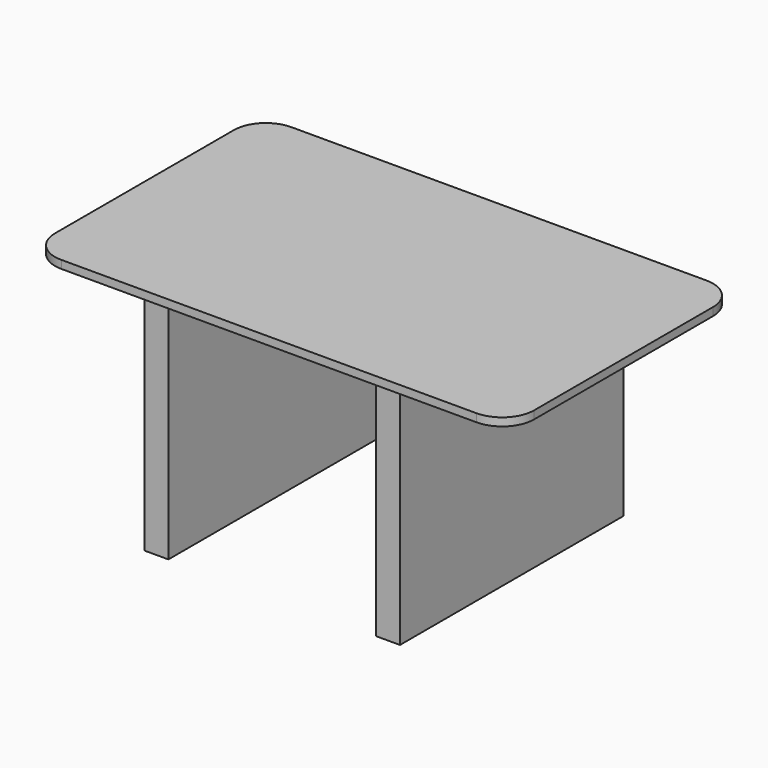
from build123d import *

# Parameters (mm, degrees)
F2_DEPTH = 25.4
F1_W     = 76.2
F1_H     = 889
F3_DEPTH = 711.2


with BuildPart() as f2:
    # F0 (on Top) → F2 (new body)
    with BuildSketch(Plane.XY):
        with BuildLine():
            ThreePointArc((0, 101.6), (29.757951, 29.757951), (101.6, 0))
            Line((101.6, 0), (1422.4, 0))
            ThreePointArc((1422.4, 0), (1494.242049, 29.757951), (1524, 101.6))
            Line((1524, 101.6), (1524, 812.8))
            ThreePointArc((1524, 812.8), (1494.242049, 884.642049), (1422.4, 914.4))
            Line((1422.4, 914.4), (101.6, 914.4))
            ThreePointArc((101.6, 914.4), (29.757951, 884.642049), (0, 812.8))
            Line((0, 812.8), (0, 101.6))
        make_face()
    extrude(amount=F2_DEPTH)

    # F1 (on Top) → F3 (join)
    with BuildSketch(Plane.XY):
        with Locations((393.7, 457.2)):
            Rectangle(F1_W, F1_H)
        with Locations((1130.3, 457.2)):
            Rectangle(F1_W, F1_H)
    extrude(amount=-F3_DEPTH)


solid = f2.part
